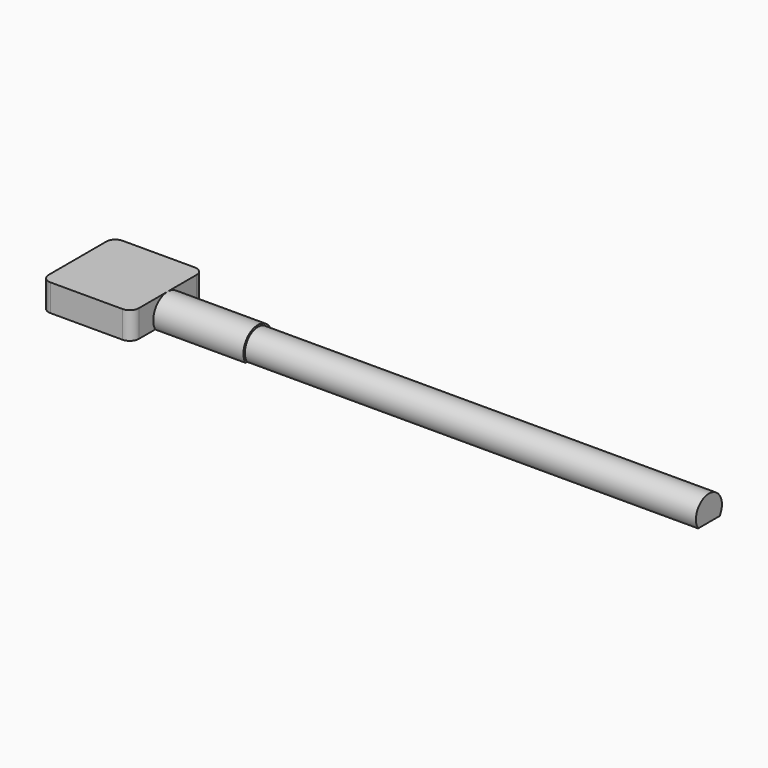
from build123d import *

# Parameters (mm, degrees)
PAD_DEPTH    = 50
PAD001_DEPTH = 10
SKETCH004_W  = 10
SKETCH004_H  = 3
PAD002_DEPTH = 10
FILLET_R     = 1


with BuildPart() as part:
    # Sketch → Pad (new body)
    with BuildSketch(Plane.YZ):
        with BuildLine():
            ThreePointArc((1.496663, 0), (0, 2.8), (-1.496663, 0))
            Line((-1.496663, 0), (1.496663, 0))
        make_face()
    extrude(amount=PAD_DEPTH)

    # Sketch003 → Pad001 (join)
    with BuildSketch(Plane.YZ):
        with BuildLine():
            ThreePointArc((1.732051, 0), (0, 3), (-1.732051, 0))
            Line((-1.732051, 0), (1.732051, 0))
        make_face()
    extrude(amount=-PAD001_DEPTH)

    # Sketch004 (on DatumPlane) → Pad002 (join)
    with BuildSketch(Plane(origin=(-10, 0, 0), x_dir=(0, 1, 0), z_dir=(-1, 0, 0))):
        with Locations((0, -1.5)):
            Rectangle(SKETCH004_W, SKETCH004_H)
    extrude(amount=PAD002_DEPTH)

    # Fillet
    fillet_edges = [part.edges().sort_by_distance(p)[0] for p in [
        (-20, 5, 1.5),
        (-10, 5, 1.5),
        (-10, -5, 1.5),
        (-20, -5, 1.5),
    ]]
    fillet(fillet_edges, radius=FILLET_R)


solid = part.part
